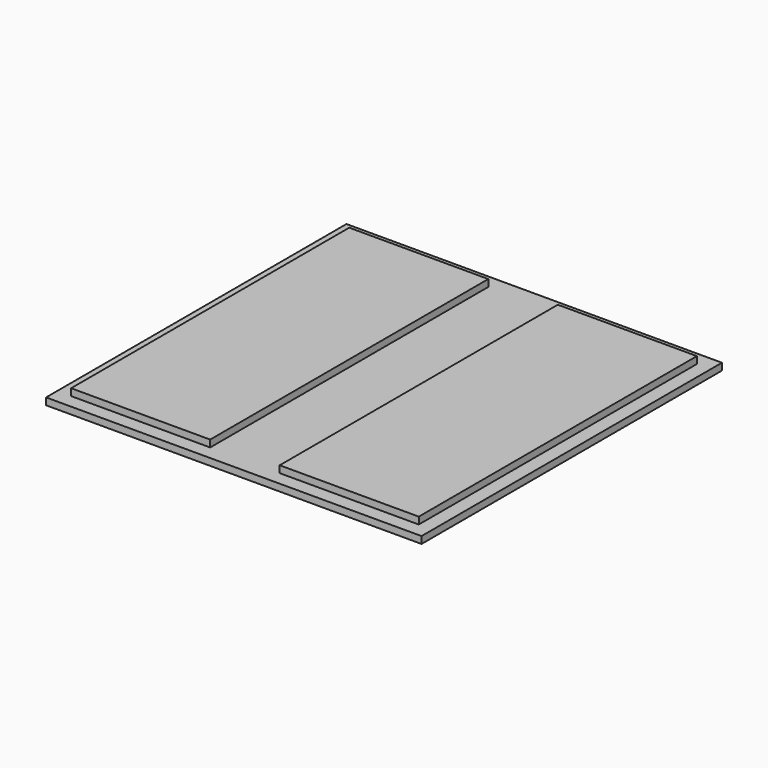
from build123d import *

# Parameters (mm, degrees)
F0_W     = 5.4
F0_H     = 5.4
F0_W_2   = 2
F0_H_2   = 5
F1_DEPTH = 0.1
F2_DEPTH = 0.1


with BuildPart() as f1:
    # F0 (on Top) → F1 (new body)
    with BuildSketch(Plane.XY):
        Rectangle(F0_W, F0_H)
        with Locations((-1.5, 0)):
            Rectangle(F0_W_2, F0_H_2, mode=Mode.SUBTRACT)
        with Locations((1.5, 0)):
            Rectangle(F0_W_2, F0_H_2, mode=Mode.SUBTRACT)
        with Locations((-1.5, 0)):
            Rectangle(F0_W_2, F0_H_2)
        with Locations((1.5, 0)):
            Rectangle(F0_W_2, F0_H_2)
    extrude(amount=-F1_DEPTH)

    # F0 (on Top) → F2 (join)
    with BuildSketch(Plane.XY):
        with Locations((-1.5, 0)):
            Rectangle(F0_W_2, F0_H_2)
        with Locations((1.5, 0)):
            Rectangle(F0_W_2, F0_H_2)
    extrude(amount=F2_DEPTH)


solid = f1.part
